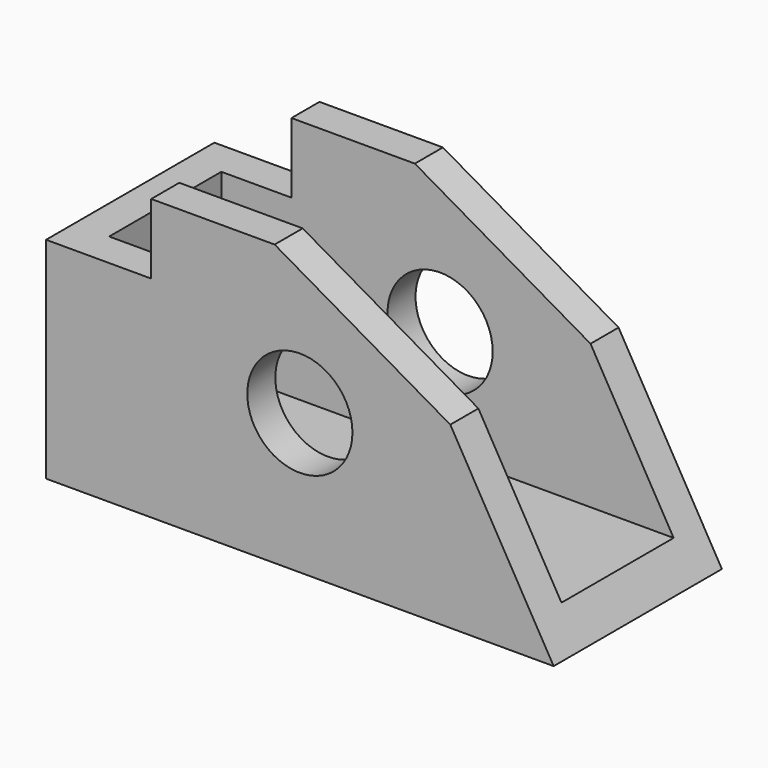
from build123d import *

# Parameters (mm, degrees)
F1_DEPTH = 15
F2_W     = 10
F2_H     = 28.5030794889
F3_DEPTH = 36.201
F4_W     = 10
F4_H     = 12.5
F5_DEPTH = 2.5
F6_R     = 3.75
F7_DEPTH = 15.001


with BuildPart() as f1:
    # F0 (on Front) → F1 (new body)
    with BuildSketch(Plane.XZ):
        Polygon((-1.8, 10), (-10.6, 10), (-10.6, 5), (-18.1, 5), (-18.1, -10), (18.1, -10), (10.7294919243, 2.7660944647), align=None)
    extrude(amount=-F1_DEPTH)

    # F2 (on face) → F3 (cut, through all)
    with BuildSketch(Plane(origin=(-18.1, 0, 0), x_dir=(0, -1, 0), z_dir=(-1, 0, 0))):
        with Locations((-7.5, 6.7515397444)):
            Rectangle(F2_W, F2_H)
    extrude(amount=-F3_DEPTH, mode=Mode.SUBTRACT)

    # F4 (on face) → F5 (join)
    with BuildSketch(Plane(origin=(-18.1, 0, 0), x_dir=(0, -1, 0), z_dir=(-1, 0, 0))):
        with Locations((-7.5, -1.25)):
            Rectangle(F4_W, F4_H)
    extrude(amount=-F5_DEPTH)

    # F6 (on face) → F7 (cut, through all)
    with BuildSketch(Plane.XZ):
        Circle(F6_R)
    extrude(amount=-F7_DEPTH, mode=Mode.SUBTRACT)


solid = f1.part
